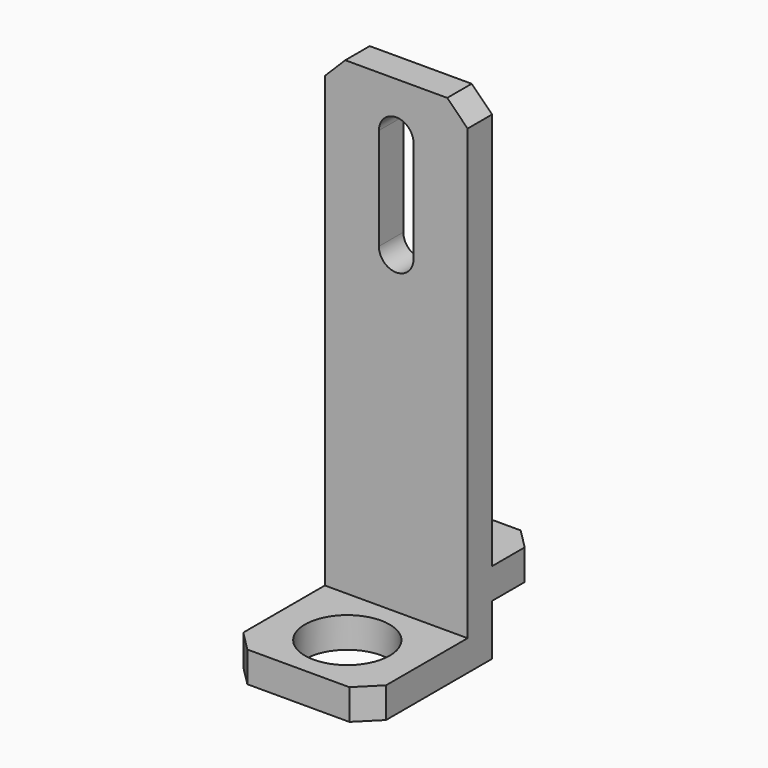
from build123d import *

# Parameters (mm, degrees)
CYLINDER010056_R               = 4.15
CYLINDER010056_DEPTH           = 8
BOX051068_W                    = 14
BOX051068_H                    = 15
BOX051068_DEPTH                = 3
CHAMFER006001008042011035_SIZE = 2
CYLINDER010057_R               = 1.65
CYLINDER010057_DEPTH           = 8
BOX051070_W                    = 14
BOX051070_H                    = 9
BOX051070_DEPTH                = 3
CHAMFER006001008042011037_SIZE = 2
BOX051069_W                    = 3.4
BOX051069_H                    = 9
BOX051069_DEPTH                = 10
CYLINDER010059_R               = 1.7
CYLINDER010059_DEPTH           = 10
CYLINDER010058_R               = 1.7
CYLINDER010058_DEPTH           = 10
BOX051067_W                    = 14
BOX051067_H                    = 3
BOX051067_DEPTH                = 49
CHAMFER006001008042011038_SIZE = 2


with BuildPart() as cylinder065:
    # Cylinder010056 → Cylinder010056 (new body)
    with BuildSketch(Plane(origin=(8, -20, -17), x_dir=(1, 0, 0), z_dir=(0, 0, 1))):
        Circle(CYLINDER010056_R)
    extrude(amount=CYLINDER010056_DEPTH)


with BuildPart() as chamfer006001008042011035:
    # Box051068 → Box051068 (new body)
    with BuildSketch(Plane(origin=(1, -26, -14), x_dir=(1, 0, 0), z_dir=(0, 0, 1))):
        with Locations((7, 7.5)):
            Rectangle(BOX051068_W, BOX051068_H)
    extrude(amount=BOX051068_DEPTH)

    # Cut036009013017007033022003: cut Cylinder065
    add(cylinder065.part, mode=Mode.SUBTRACT)

    # Chamfer006001008042011035
    chamfer006001008042011035_edges = [chamfer006001008042011035.edges().sort_by_distance(p)[0] for p in [
        (1, -26, -12.5),
        (15, -26, -12.5),
    ]]
    chamfer(chamfer006001008042011035_edges, length=CHAMFER006001008042011035_SIZE)


with BuildPart() as cylinder066:
    # Cylinder010057 → Cylinder010057 (new body)
    with BuildSketch(Plane(origin=(8, -8, -12), x_dir=(1, 0, 0), z_dir=(0, 0, 1))):
        Circle(CYLINDER010057_R)
    extrude(amount=CYLINDER010057_DEPTH)


with BuildPart() as chamfer006001008042011037:
    # Box051070 → Box051070 (new body)
    with BuildSketch(Plane(origin=(1, -14, -9), x_dir=(1, 0, 0), z_dir=(0, 0, 1))):
        with Locations((7, 4.5)):
            Rectangle(BOX051070_W, BOX051070_H)
    extrude(amount=BOX051070_DEPTH)

    # Cut036009013017007033022005: cut Cylinder066
    add(cylinder066.part, mode=Mode.SUBTRACT)

    # Chamfer006001008042011037
    chamfer006001008042011037_edges = [chamfer006001008042011037.edges().sort_by_distance(p)[0] for p in [
        (1, -5, -7.5),
        (15, -5, -7.5),
    ]]
    chamfer(chamfer006001008042011037_edges, length=CHAMFER006001008042011037_SIZE)


with BuildPart() as cube120:
    # Box051069 → Box051069 (new body)
    with BuildSketch(Plane(origin=(6.3, -16, 20), x_dir=(1, 0, 0), z_dir=(0, 0, 1))):
        with Locations((1.7, 4.5)):
            Rectangle(BOX051069_W, BOX051069_H)
    extrude(amount=BOX051069_DEPTH)


with BuildPart() as cylinder068:
    # Cylinder010059 → Cylinder010059 (new body)
    with BuildSketch(Plane(origin=(8, -6, 20), x_dir=(1, 0, 0), z_dir=(0, -1, 0))):
        Circle(CYLINDER010059_R)
    extrude(amount=CYLINDER010059_DEPTH)


with BuildPart() as fusion004006005010017004019022003002035:
    # Cylinder010058 → Cylinder010058 (new body)
    with BuildSketch(Plane(origin=(8, -6, 30), x_dir=(1, 0, 0), z_dir=(0, -1, 0))):
        Circle(CYLINDER010058_R)
    extrude(amount=CYLINDER010058_DEPTH)

    # Fusion004006005010017004019022003002035: union Cube120, Cylinder068
    add(cube120.part)
    add(cylinder068.part)


with BuildPart() as probe_m8_r1:
    # Box051067 → Box051067 (new body)
    with BuildSketch(Plane(origin=(1, -14, -14), x_dir=(1, 0, 0), z_dir=(0, 0, 1))):
        with Locations((7, 1.5)):
            Rectangle(BOX051067_W, BOX051067_H)
    extrude(amount=BOX051067_DEPTH)

    # Cut036009013017007033022006: cut Fusion004006005010017004019022003002035
    add(fusion004006005010017004019022003002035.part, mode=Mode.SUBTRACT)

    # Chamfer006001008042011038
    chamfer006001008042011038_edges = [probe_m8_r1.edges().sort_by_distance(p)[0] for p in [
        (1, -12.5, 35),
        (15, -12.5, 35),
    ]]
    chamfer(chamfer006001008042011038_edges, length=CHAMFER006001008042011038_SIZE)

    # Fusion004006005010017004019022003002036: union Chamfer006001008042011035, Chamfer006001008042011037
    add(chamfer006001008042011035.part)
    add(chamfer006001008042011037.part)


with BuildPart() as probe_m8_r1_1:
    # Fusion004006005010017004019022003002036 placement: moved
    add(probe_m8_r1.part.moved(Location((2, 1, -1))))


solid = probe_m8_r1_1.part
